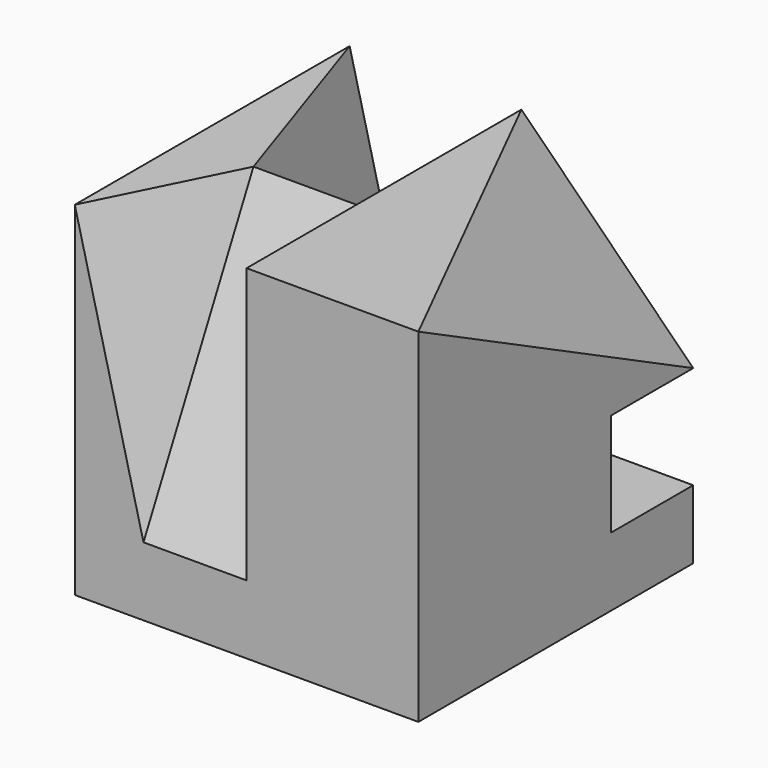
from build123d import *

# Parameters (mm, degrees)
F0_W     = 50
F0_H     = 50
F1_DEPTH = 50
F3_DEPTH = 15
F4_W     = 15
F4_H     = 20
F7_W     = 15
F7_H     = 30


with BuildPart() as f1:
    # F0 (on Top) → F1 (new body)
    with BuildSketch(Plane.XY):
        with Locations((25, 25)):
            Rectangle(F0_W, F0_H)
    extrude(amount=F1_DEPTH)

    # F2 (on face) → F3 (cut)
    with BuildSketch(Plane(origin=(0, 50, 0), x_dir=(-1, 0, 0), z_dir=(0, 1, 0))):
        Polygon((-50, 25), (-50, 10), (-30, 10), align=None)
    extrude(amount=-F3_DEPTH, mode=Mode.SUBTRACT)

    # F6: sweep along a path in F5
    with BuildLine(Plane(origin=(0, 0, 0), x_dir=(0, -1, 0), z_dir=(-1, 0, 0))) as f6_path:
        Line((-20, 50), (0, 10))
    # F4 (on face) → F6 (sweep, cut)
    with BuildSketch(Plane.XY.offset(50)):
        with Locations((17.5, 10)):
            Rectangle(F4_W, F4_H)
    sweep(path=f6_path.line, mode=Mode.SUBTRACT)

    # F9: sweep along a path in F8
    with BuildLine(Plane(origin=(0, 0, 0), x_dir=(0, -1, 0), z_dir=(-1, 0, 0))) as f9_path:
        Line((-20, 50), (-50, 10))
    # F7 (on face) → F9 (sweep, cut)
    with BuildSketch(Plane.XY.offset(50)):
        with Locations((17.5, 35)):
            Rectangle(F7_W, F7_H)
    sweep(path=f9_path.line, mode=Mode.SUBTRACT)

    # F12: sweep along a path in F10
    with BuildLine(Plane.XY.offset(50)) as f12_path:
        Line((10, 20), (0, 0))
    # F6_face (on face) → F12 (sweep, cut)
    with BuildSketch(Plane(origin=(10, 6.6666666667, 36.6666666667), x_dir=(0, 1, 0), z_dir=(1, 0, 0))):
        Polygon((-6.6666666667, -26.6666666667), (13.3333333333, 13.3333333333), (-6.6666666667, 13.3333333333), align=None)
    sweep(path=f12_path.line, mode=Mode.SUBTRACT)

    # F15: sweep along a path in F13
    with BuildLine(Plane.XY.offset(50)) as f15_path:
        Line((0, 50), (10, 20))
    # F9_face1 (on face) → F15 (sweep, cut)
    with BuildSketch(Plane(origin=(10, 40, 36.6666666667), x_dir=(0, 1, 0), z_dir=(1, 0, 0))):
        Polygon((10, -26.6666666667), (10, 13.3333333333), (-20, 13.3333333333), align=None)
    sweep(path=f15_path.line, mode=Mode.SUBTRACT)

    # F18: sweep along a path in F16
    with BuildLine(Plane.XY.offset(50)) as f18_path:
        Line((25, 50), (50, 0))
    # F17 (on face) → F18 (sweep, cut)
    with BuildSketch(Plane.YZ.offset(50)):
        Polygon((50, 50), (0, 50), (50, 25), align=None)
    sweep(path=f18_path.line, mode=Mode.SUBTRACT)


solid = f1.part
